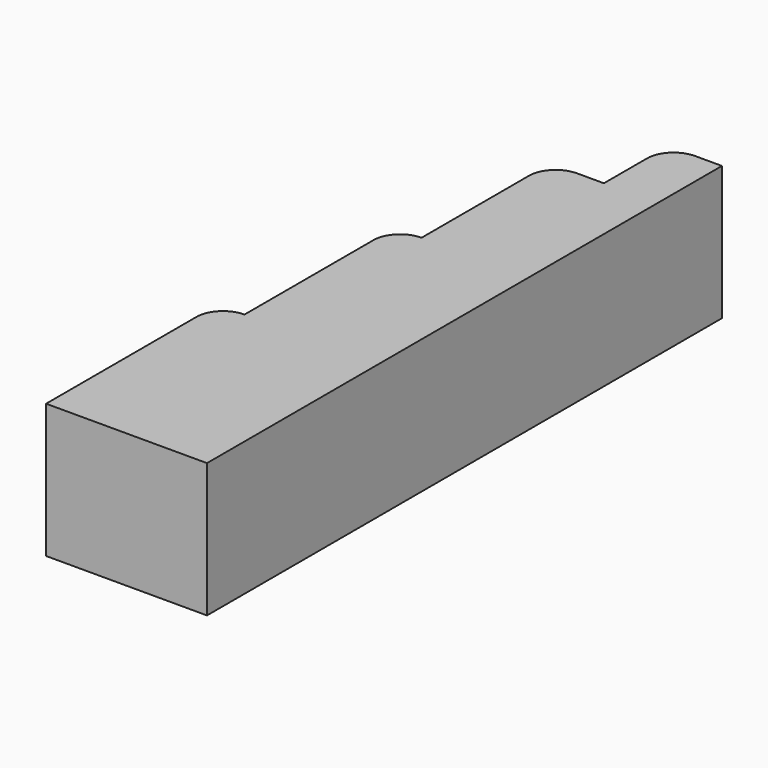
from build123d import *

# Parameters (mm, degrees)
F1_DEPTH = 25


with BuildPart() as f1:
    # F0 (on Top) → F1 (new body)
    with BuildSketch(Plane.XY):
        with BuildLine():
            Line((-17.311828, -39.045703), (12.688172, -39.045703))
            Line((12.688172, -39.045703), (12.688172, 80.954297))
            Line((12.688172, 80.954297), (7.688172, 80.954297))
            ThreePointArc((7.688172, 80.954297), (4.152638, 79.489831), (2.688172, 75.954297))
            Line((2.688172, 75.954297), (2.688172, 65.954297))
            Line((2.688172, 65.954297), (-2.311828, 65.954297))
            ThreePointArc((-2.311828, 65.954297), (-5.847362, 64.489831), (-7.311828, 60.954297))
            Line((-7.311828, 60.954297), (-7.311828, 35.954297))
            ThreePointArc((-7.311828, 35.954297), (-10.847362, 34.489831), (-12.311828, 30.954297))
            Line((-12.311828, 30.954297), (-12.311828, 0.954297))
            ThreePointArc((-12.311828, 0.954297), (-15.847362, -0.510169), (-17.311828, -4.045703))
            Line((-17.311828, -4.045703), (-17.311828, -39.045703))
        make_face()
    extrude(amount=F1_DEPTH)


solid = f1.part
